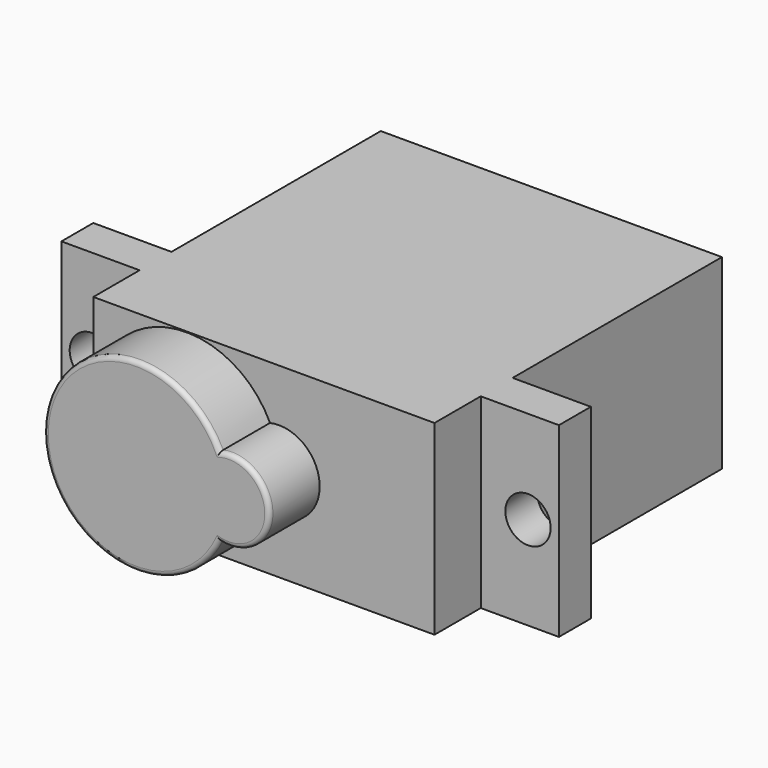
from build123d import *

# Parameters (mm, degrees)
PAD026_DEPTH            = 12.35
PAD025_DEPTH            = 4.17
SKETCH050_R             = 1.5
POCKET019_DEPTH         = 5
FILLET025_R             = 0.3
BODY013_PLACEMENT_ANGLE = 180


with BuildPart() as part:
    # Sketch051 → Pad026 (new body)
    with BuildSketch(Plane.XY):
        Polygon((0, 23.8), (22.6, 23.8), (22.6, 19.97), (27.78, 19.97), (27.78, 17.33), (22.6, 17.33), (22.6, 0), (0, 0), (0, 17.33), (-5.18, 17.33), (-5.18, 19.97), (0, 19.97), align=None)
    extrude(amount=PAD026_DEPTH)

    # Sketch049 (on Face4 of Pad026) → Pad025 (join)
    with BuildSketch(Plane(origin=(0, 23.8, 0), x_dir=(-1, 0, 0), z_dir=(0, 1, 0))):
        with BuildLine():
            ThreePointArc((-10.895586, 8.809617), (-22.55, 6.175), (-10.895586, 3.540383))
            ThreePointArc((-10.895586, 3.540383), (-7.605, 6.175), (-10.895586, 8.809617))
        make_face()
    extrude(amount=PAD025_DEPTH)

    # Sketch050 (on Face10 of Pad025) → Pocket019 (cut)
    with BuildSketch(Plane(origin=(0, 19.97, 0), x_dir=(-1, 0, 0), z_dir=(0, 1, 0))):
        with Locations((-25.73, 6.175)):
            Circle(SKETCH050_R)
        with Locations((3.13, 6.175)):
            Circle(SKETCH050_R)
    extrude(amount=-POCKET019_DEPTH, mode=Mode.SUBTRACT)

    # Fillet025
    fillet025_edges = [part.edges().sort_by_distance(p)[0] for p in [
        (22.55, 27.97, 6.175),
        (7.605, 27.97, 6.175),
    ]]
    fillet(fillet025_edges, radius=FILLET025_R)


with BuildPart() as part_1:
    # Body013 placement: moved
    add(part.part.moved(Location((20.600001, 8.309999, -25.780001))).rotate(Axis((20.600001, 8.309999, -25.780001), (0, 0, 1)), BODY013_PLACEMENT_ANGLE))


solid = part_1.part
